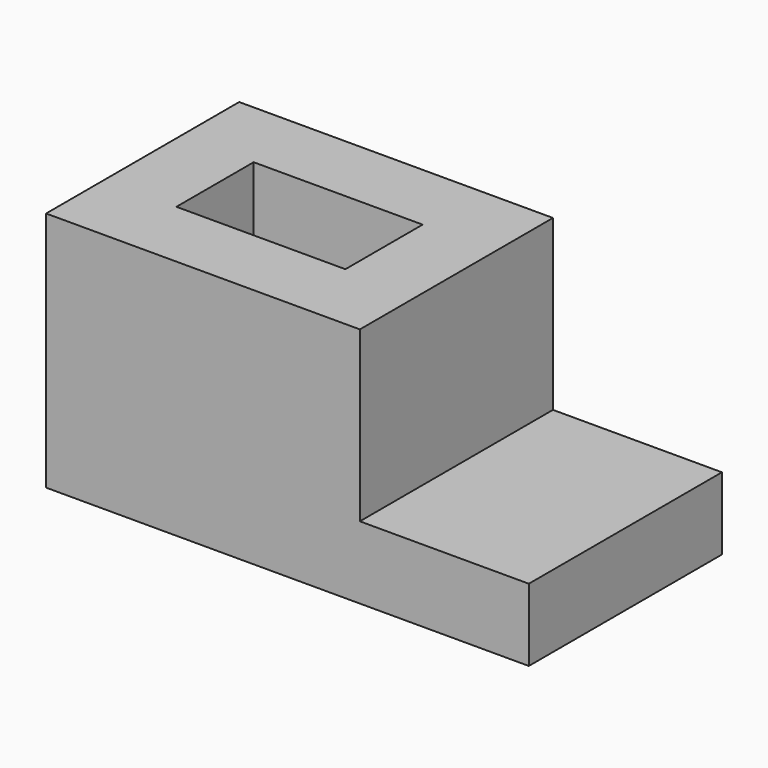
from build123d import *

# Parameters (mm, degrees)
F0_W     = 82.55
F0_H     = 63.5
F0_W_2   = 44.45
F0_H_2   = 25.4
F1_DEPTH = 63.5
F2_DEPTH = 19.05


with BuildPart() as f1:
    # F0 (on Top) → F1 (new body)
    with BuildSketch(Plane.XY):
        with Locations((-41.275, 31.75)):
            Rectangle(F0_W, F0_H)
        with Locations((-41.275, 31.75)):
            Rectangle(F0_W_2, F0_H_2, mode=Mode.SUBTRACT)
    extrude(amount=F1_DEPTH)

    # F0 (on Top) → F2 (join)
    with BuildSketch(Plane.XY):
        with Locations((22.225, 31.75)):
            Rectangle(F0_W_2, F0_H)
    extrude(amount=F2_DEPTH)


solid = f1.part
